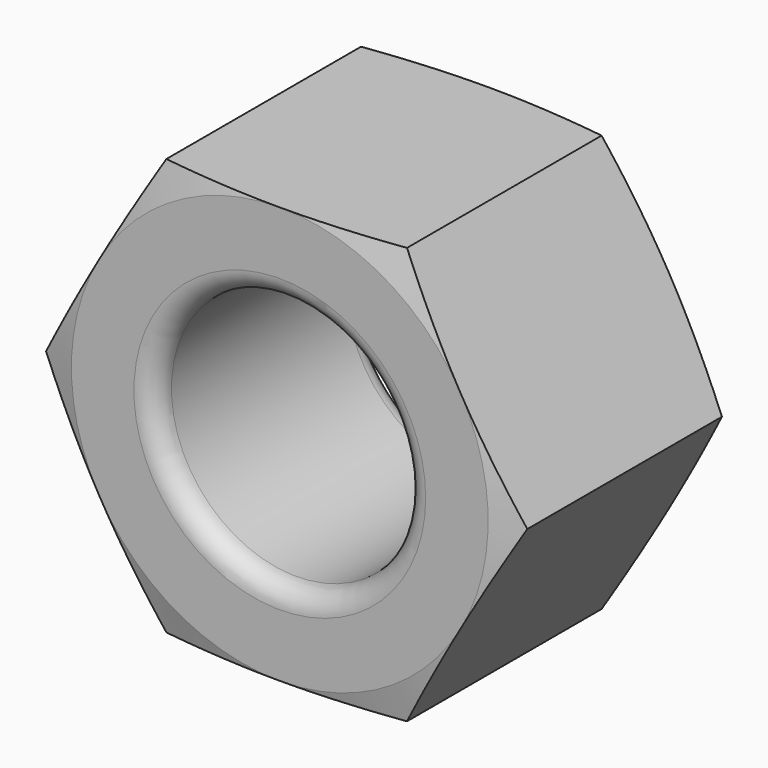
from build123d import *

# Parameters (mm, degrees)
F0_R     = 12
F1_DEPTH = 25
F4_R     = 2


with BuildPart() as f1:
    # F0 (on Front) → F1 (new body)
    with BuildSketch(Plane.XZ):
        Polygon((11.547005, 20), (-11.547005, 20), (-23.094011, 0), (-11.547005, -20), (11.547005, -20), (23.094011, 0), align=None)
        Circle(F0_R, mode=Mode.SUBTRACT)
    extrude(amount=F1_DEPTH)

    # F2 (on Right) → F3 (revolve, cut)
    with BuildSketch(Plane.YZ):
        Polygon((-25, 56.939398), (-25, 20), (-18.841215, 42.984898), (-6.158785, 42.984898), (0, 20), (0, 56.939398), align=None)
    revolve(axis=Axis((0, -3.116442, 0), (0, 1, 0)), mode=Mode.SUBTRACT)

    # F4
    f4_edges = [f1.edges().sort_by_distance(p)[0] for p in [
        (-12, -25, 0),
        (-12, 0, 0),
    ]]
    fillet(f4_edges, radius=F4_R)


solid = f1.part
